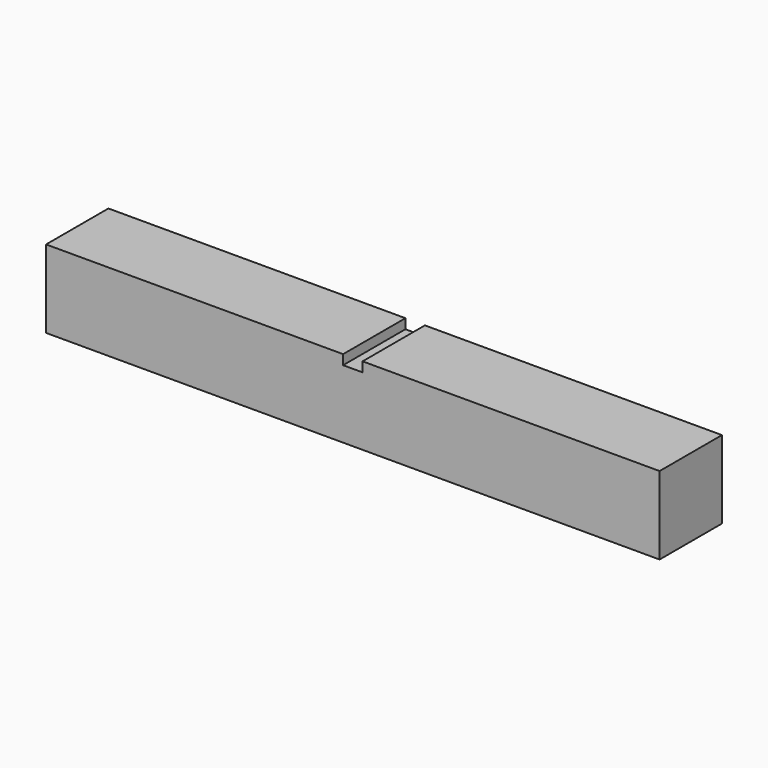
from build123d import *

# Parameters (mm, degrees)
F0_W     = 800.1
F0_H     = 101.6
F1_DEPTH = 101.6
F3_DEPTH = 101.601


with BuildPart() as f1:
    # F0 (on Front) → F1 (new body)
    with BuildSketch(Plane.XZ):
        Rectangle(F0_W, F0_H)
    extrude(amount=F1_DEPTH)

    # F2 (on face) → F3 (cut, through all)
    with BuildSketch(Plane.XZ.offset(101.6)):
        Polygon((12.7, 38.1), (12.7, 63.5), (-12.7, 63.5), (-12.7, 38.1), (0, 38.1), align=None)
    extrude(amount=-F3_DEPTH, mode=Mode.SUBTRACT)


solid = f1.part
